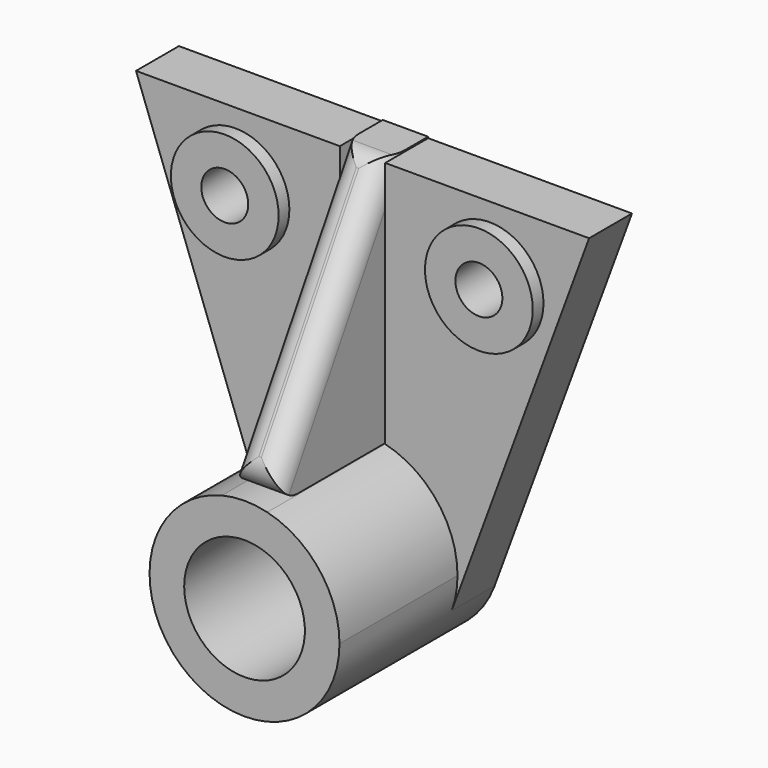
from build123d import *

# Parameters (mm, degrees)
F0_R          = 12.7567686724
F1_DEPTH      = 12.7
F2_DEPTH      = 15.875
F3_DEPTH      = 47.625
F5_DEPTH      = 5.3721
F5_DEPTH_BACK = 5.3721
F6_D          = 11.1125
F6_DEPTH      = 15.875
F6_TIP        = 3.3385318145
F6_2_D        = 11.1125
F6_2_DEPTH    = 15.875
F6_2_TIP      = 3.3385318145
F7_D          = 28.575
F7_DEPTH      = 47.625
F7_TIP        = 8.5847960944
F8_R          = 5.08


with BuildPart() as f1:
    # F0 (on Front) → F1 (new body)
    with BuildSketch(Plane.XZ):
        with BuildLine():
            ThreePointArc((-21.0940879488, -7.7810234971), (-19.8589195471, 10.541735506), (-5.3748115897, 21.8315430841))
            Line((-5.3748115897, 21.8315430841), (-5.3748115897, 80.4299041629))
            Line((-5.3748115897, 80.4299041629), (-53.632657975, 80.4299041629))
            Line((-53.632657975, 80.4299041629), (-21.0940879488, -7.7810234971))
        make_face()
        with Locations((-30.0800949335, 63.3666962385)):
            Circle(F0_R, mode=Mode.SUBTRACT)
    extrude(amount=F1_DEPTH)


with BuildPart() as f1b:
    # F0 (on Front) → F1, piece 2 (new body)
    with BuildSketch(Plane.XZ):
        with BuildLine():
            ThreePointArc((5.3748115897, 21.8315430841), (17.696738441, 13.8683207926), (22.4834355261, 0))
            ThreePointArc((22.4834355261, 0), (22.1333734409, -3.9520441777), (21.0940879627, -7.7810234596))
            Line((21.0940879627, -7.7810234596), (53.632657975, 80.4299041629))
            Line((53.632657975, 80.4299041629), (5.3748115897, 80.4299041629))
            Line((5.3748115897, 80.4299041629), (5.3748115897, 21.8315430841))
        make_face()
        with Locations((30.0800949335, 63.3666962385)):
            Circle(F0_R, mode=Mode.SUBTRACT)
    extrude(amount=F1_DEPTH)


with BuildPart() as f2:
    # F0 (on Front) → F2 (new body)
    with BuildSketch(Plane.XZ):
        with Locations((-30.0800949335, 63.3666962385)):
            Circle(F0_R)
    extrude(amount=F2_DEPTH)

    # F6
    with Locations(Plane(origin=(0, 0, 0), x_dir=(1, 0, 0), z_dir=(0, 1, 0))):
        with Locations((-30.0800949335, -63.3666962385), (30.0800949335, -63.3666962385)):
            Hole(F6_D / 2, depth=F6_DEPTH)
            with Locations((0, 0, -(F6_DEPTH + F6_TIP / 2))):  # 118° drill point
                Cone(0, F6_D / 2, F6_TIP, mode=Mode.SUBTRACT)


with BuildPart() as f2b:
    # F0 (on Front) → F2, piece 2 (new body)
    with BuildSketch(Plane.XZ):
        with Locations((30.0800949335, 63.3666962385)):
            Circle(F0_R)
    extrude(amount=F2_DEPTH)

    # F6#2
    with Locations(Plane(origin=(0, 0, 0), x_dir=(1, 0, 0), z_dir=(0, 1, 0))):
        with Locations((-30.0800949335, -63.3666962385), (30.0800949335, -63.3666962385)):
            Hole(F6_2_D / 2, depth=F6_2_DEPTH)
            with Locations((0, 0, -(F6_2_DEPTH + F6_2_TIP / 2))):  # 118° drill point
                Cone(0, F6_2_D / 2, F6_2_TIP, mode=Mode.SUBTRACT)


with BuildPart() as f3:
    # F0 (on Front) → F3 (new body)
    with BuildSketch(Plane.XZ):
        with BuildLine():
            ThreePointArc((21.0940879627, -7.7810234596), (22.1333734409, -3.9520441777), (22.4834355261, 0))
            ThreePointArc((22.4834355261, 0), (17.696738441, 13.8683207926), (5.3748115897, 21.8315430841))
            ThreePointArc((5.3748115897, 21.8315430841), (0, 22.4834355261), (-5.3748115897, 21.8315430841))
            ThreePointArc((-5.3748115897, 21.8315430841), (-19.8589195471, 10.541735506), (-21.0940879488, -7.7810234971))
            ThreePointArc((-21.0940879488, -7.7810234971), (2e-08, -22.4834355261), (21.0940879627, -7.7810234596))
        make_face()
    extrude(amount=F3_DEPTH)

    # F7
    with Locations(Plane(origin=(0, 0, 0), x_dir=(1, 0, 0), z_dir=(0, 1, 0))):
        with Locations((0, 0)):
            Hole(F7_D / 2, depth=F7_DEPTH)
            with Locations((0, 0, -(F7_DEPTH + F7_TIP / 2))):  # 118° drill point
                Cone(0, F7_D / 2, F7_TIP, mode=Mode.SUBTRACT)


with BuildPart() as f5:
    # F4 (on Right) → F5 (new body, two sides)
    with BuildSketch(Plane.YZ) as f5_sk:
        Polygon((-47.5494302809, 22.0449119806), (0, 22.0449119806), (0, 80.7362869382), (-12.7112343907, 80.7362869382), align=None)
    extrude(amount=F5_DEPTH)
    extrude(f5_sk.sketch, amount=-F5_DEPTH_BACK)

    # F8
    f8_edges = [f5.edges().sort_by_distance(p)[0] for p in [
        (0, -12.711234, 80.736287),
        (5.3721, -30.130332, 51.390599),
        (0, -47.54943, 22.044912),
        (-5.3721, -30.130332, 51.390599),
    ]]
    fillet(f8_edges, radius=F8_R)


solid = Compound([f1.part, f1b.part, f2.part, f2b.part, f3.part, f5.part])
